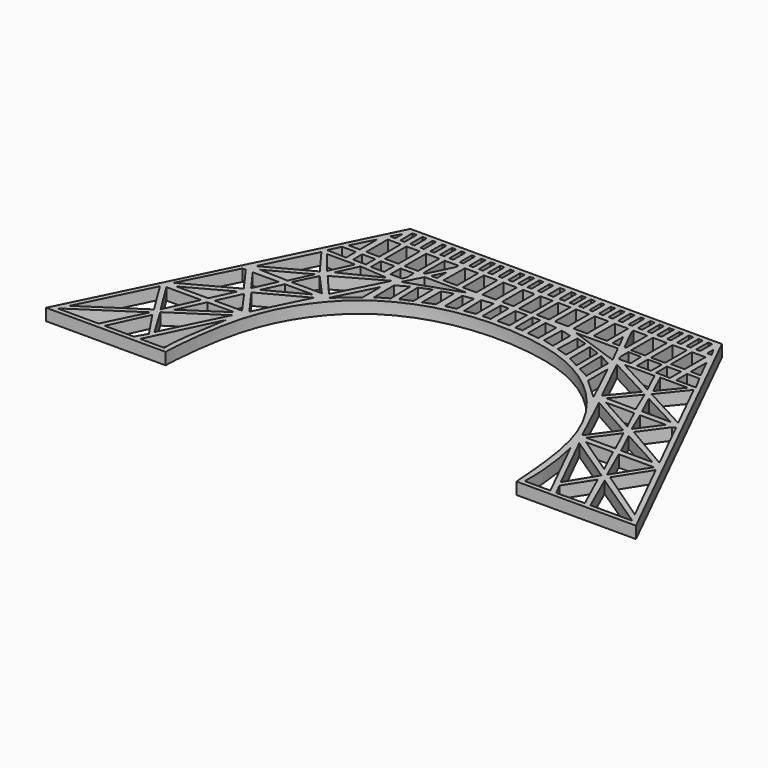
from build123d import *

# Parameters (mm, degrees)
F0_W     = 2.1969927219
F0_H     = 1.9482756859
F0_H_2   = 4.5209247087
F0_W_2   = 2.2384436875
F0_H_3   = 2.1140859725
F0_W_3   = 2.2645775986
F0_W_4   = 2.2655516778
F0_H_4   = 4.4288981134
F0_W_5   = 2.2655520793
F0_W_6   = 1.9419019113
F0_W_7   = 0.5858223257
F0_H_5   = 2.554183477
F0_W_8   = 0.679553962
F0_H_6   = 2.5307509694
F0_H_7   = 2.5073184618
F0_W_9   = 0.6561198484
F0_H_8   = 2.5307525754
F0_W_10  = 0.5623898181
F0_H_9   = 2.554185083
F0_W_11  = 0.7264189772
F0_H_10  = 2.5307493633
F0_W_12  = 0.6561206514
F0_W_13  = 0.7498514848
F0_H_11  = 2.5073168557
F0_W_14  = 0.6989393832
F0_H_12  = 2.491872922
F0_W_15  = 2.0356079761
F0_H_13  = 4.5042740178
F0_W_16  = 2.0717428371
F0_H_14  = 4.4560952404
F0_W_17  = 2.204237687
F0_H_15  = 4.4320042456
F0_W_18  = 2.2765082622
F0_H_16  = 4.480183023
F0_W_19  = 2.3498388412
F0_H_17  = 2.2834246057
F0_W_20  = 2.2403741792
F0_H_18  = 4.4681391317
F0_W_21  = 2.3700961556
F0_H_19  = 4.5781337956
F0_W_22  = 0.9420490645
F0_W_23  = 0.7597171486
F0_W_24  = 0.5773848563
F0_W_25  = 0.7498530908
F0_H_20  = 2.5874097769
F0_W_26  = 0.6326873408
F0_H_21  = 2.5887652969
F0_W_27  = 2.2890652917
F0_H_22  = 4.3958179654
F1_DEPTH = 2


with BuildPart() as f1:
    # F0 (on Top) → F1 (new body)
    with BuildSketch(Plane.XY):
        with BuildLine():
            Line((27.0007730746, 30.2083718114), (-25.4992269254, 30.2083718114))
            Line((-25.4992269254, 30.2083718114), (-48.8868722465, -17.2833914392))
            Line((-48.8868722465, -17.2833914392), (-28.7300878996, -17.2833914392))
            add(Edge.make_bspline(
                [(30.3724716103, -17.2833914392), (30.0141074374, -12.5329172532), (29.3433432359, -3.6412694135), (24.4366761221, 5.9431182443), (16.8732465462, 12.7394233727), (7.1639295493, 15.9492300859), (-5.11994949, 16.209739628), (-15.3902742058, 12.6879454183), (-22.604072381, 6.2724216809), (-27.804809421, -3.7916482494), (-28.7934558269, -16.2804704783), (-28.7407355817, -17.1148711163), (-28.7300878996, -17.2833914392)],
                knots=[0, 0, 0, 0, 0.12041649, 0.2253882416, 0.3267062189, 0.4297355944, 0.5431890477, 0.6490299731, 0.7471991683, 0.8603557383, 0.9717966466, 1, 1, 1, 1], degree=3))
            Line((30.3724716103, -17.2833914392), (50.5131277535, -17.2833914392))
            Line((50.5131277535, -17.2833914392), (27.0007730746, 30.2083718114))
        make_face()
        Polygon((-40.676256503, -16.4876321549), (-47.610968194, -16.4876321549), (-37.343290916, -9.7195967068), align=None, mode=Mode.SUBTRACT)
        Polygon((-36.7019394001, -10.1268065046), (-33.6747549381, -14.6489544345), (-34.7521106481, -16.4876321549), (-39.6426596759, -16.4876321549), align=None, mode=Mode.SUBTRACT)
        Polygon((-46.8110632146, -14.9262421901), (-41.0118312115, -3.1501206719), (-37.5021999697, -8.7902179739), align=None, mode=Mode.SUBTRACT)
        Polygon((-36.8371810859, -8.2122192832), (-40.2030322747, -2.8031814381), (-34.3377181494, -2.8058404145), align=None, mode=Mode.SUBTRACT)
        with BuildLine():
            Line((-33.6747549381, -16.4876321549), (-28.2305723657, -5.2353078901))
            add(Edge.make_bspline(
                [(-28.2305723657, -5.2353078901), (-28.8038633021, -8.65007086), (-29.6739515275, -13.8326838481), (-29.6335091118, -15.8123461475), (-29.6197137299, -16.4876321549)],
                knots=[0, 0, 0, 0, 0.6588882824, 1, 1, 1, 1], degree=3))
            Line((-29.6197137299, -16.4876321549), (-33.6747549381, -16.4876321549))
        make_face(mode=Mode.SUBTRACT)
        Polygon((-28.4398625694, -3.6568282297), (-33.4320301355, -13.7940967278), (-36.3658081307, -8.881289329), align=None, mode=Mode.SUBTRACT)
        Polygon((-28.7526948891, -2.8031814381), (-35.3111020298, -7.1575351879), (-33.2980085945, -2.8031814381), align=None, mode=Mode.SUBTRACT)
        Polygon((-33.9134099686, -1.8355467584), (-39.289154843, -1.8355467584), (-32.0983091682, 2.0905457108), align=None, mode=Mode.SUBTRACT)
        Polygon((-32.8247756802, -1.8355467584), (-31.0105061303, 2.0887477026), (-28.2305723657, -1.8355467584), align=None, mode=Mode.SUBTRACT)
        Polygon((-31.9781386016, 3.2176542266), (-40.2030322747, -1.2442146215), (-35.7061911318, 7.5931705847), (-35.141162048, 7.5931705847), align=None, mode=Mode.SUBTRACT)
        Polygon((-27.3012413639, -1.4592444165), (-30.5266882886, 3.0026244316), (-23.1590707714, 6.9519907643), align=None, mode=Mode.SUBTRACT)
        Polygon((-31.309682815, 3.9377400451), (-33.9724200572, 7.5931705847), (-29.6197137299, 7.5931705847), align=None, mode=Mode.SUBTRACT)
        Polygon((-30.0683908406, 4.2978448444), (-28.5346649622, 7.5931705847), (-23.8637744125, 7.5931705847), align=None, mode=Mode.SUBTRACT)
        Polygon((36.4919729478, -16.5663165559), (35.5179386961, -14.6468970635), (38.3827434292, -10.1778031254), (41.2475449501, -16.4803727351), align=None, mode=Mode.SUBTRACT)
        Polygon((49.2689982028, -16.4946972406), (42.2072563024, -16.4946972406), (39.2565077485, -9.8197033368), align=None, mode=Mode.SUBTRACT)
        with BuildLine():
            add(Edge.make_bspline(
                [(29.969214055, -5.4132536138), (30.1952817712, -6.4675358341), (30.6791707617, -8.7241851597), (31.1878520754, -13.1079097936), (31.1580596797, -15.4220712278), (31.1441318695, -16.5039312247)],
                knots=[0, 0, 0, 0, 0.3182998776, 0.681308278, 1, 1, 1, 1], degree=3))
            Line((29.969214055, -5.4132536138), (35.4594323622, -16.5039312247))
            Line((35.4594323622, -16.5039312247), (31.1441318695, -16.5039312247))
        make_face(mode=Mode.SUBTRACT)
        Polygon((37.9981869101, -8.9345206889), (35.0406318472, -13.7759963604), (29.9965814251, -3.5866133605), align=None, mode=Mode.SUBTRACT)
        Polygon((42.6442284018, -3.2701761367), (48.3972767998, -14.8775651262), (39.2410124207, -8.6585976926), align=None, mode=Mode.SUBTRACT)
        Polygon((38.4509819749, -8.3142249528), (36.0403727964, -2.8042603132), (41.9554829222, -2.8042603132), align=None, mode=Mode.SUBTRACT)
        Polygon((37.1653162514, -7.2932325341), (30.5049335359, -2.8042603132), (35.0406318472, -2.8042603132), align=None, mode=Mode.SUBTRACT)
        Polygon((34.6783161345, -1.8082115097), (29.7724612947, -1.8082115097), (32.7704828046, 2.2629688581), align=None, mode=Mode.SUBTRACT)
        Polygon((40.9298778811, -1.8082115097), (35.6151988602, -1.8082115097), (33.7755044998, 2.109660794), align=None, mode=Mode.SUBTRACT)
        Polygon((28.8859993374, -1.6020458824), (24.8154998186, 7.0666208648), (32.2027010172, 2.9018880354), align=None, mode=Mode.SUBTRACT)
        Polygon((41.7361129159, -1.3726489976), (33.6155145975, 3.378381514), (36.6946103351, 7.551370225), (37.1952695204, 7.7992379716), align=None, mode=Mode.SUBTRACT)
        Polygon((31.9547805059, 4.0695077318), (25.5479704537, 7.6287505001), (30.2834858999, 7.6287505001), align=None, mode=Mode.SUBTRACT)
        Polygon((32.8572648805, 3.8835983601), (31.2714704436, 7.6287505001), (35.6151988602, 7.6287505001), align=None, mode=Mode.SUBTRACT)
        Polygon((-28.9125942886, 8.5972479822), (-33.6747549381, 8.7615893771), (-27.2236073303, 12.2505541659), align=None, mode=Mode.SUBTRACT)
        Polygon((-23.1104329457, 8.5972479822), (-28.2305723657, 8.5972479822), (-26.4244962689, 12.2647287065), align=None, mode=Mode.SUBTRACT)
        Polygon((-34.7241596989, 9.2365388476), (-30.5266882886, 17.760069786), (-27.2236073303, 13.2930516886), align=None, mode=Mode.SUBTRACT)
        Polygon((-26.5685334899, 14.017317666), (-29.6197137299, 17.760069786), (-24.8381941201, 17.760069786), align=None, mode=Mode.SUBTRACT)
        Polygon((-21.5846381638, 8.1671993587), (-18.215794873, 14.7906876508), (-18.215794873, 11.0379506843), align=None, mode=Mode.SUBTRACT)
        Polygon((-25.6201669312, 12.9444774793), (-18.1606827073, 17.1273647785), (-22.2738554859, 9.0404490658), align=None, mode=Mode.SUBTRACT)
        Polygon((-17.0354983424, 12.0063990373), (-17.1262908774, 16.3038880016), (-15.219658885, 17.3631288896), (-15.1269081446, 13.1275352584), align=None, mode=Mode.SUBTRACT)
        Polygon((-25.5478081855, 14.2696050573), (-23.9341056626, 17.760069786), (-19.2328427928, 17.3984334394), align=None, mode=Mode.SUBTRACT)
        Polygon((-14.1906827107, 13.6103911201), (-14.2814752457, 17.7565605311), (-12.4051055579, 18.5434238142), (-12.3387296199, 14.4281015669), align=None, mode=Mode.SUBTRACT)
        Polygon((-11.2248098303, 18.6039532415), (-11.2248098303, 18.8460645268), (-9.4997613019, 19.360553417), (-9.4377379868, 15.5150947166), (-11.2248098303, 14.8209507584), align=None, mode=Mode.SUBTRACT)
        Polygon((-8.1984091287, 15.8499269327), (-8.25893695, 19.6026647022), (-6.5036237078, 19.8447759874), (-6.5036237078, 16.2433601803), align=None, mode=Mode.SUBTRACT)
        Polygon((-27.0055099486, 18.5247870206), (-30.2802695335, 18.6491447356), (-29.31416174, 20.6109567081), (-27.0055099486, 20.6109567081), align=None, mode=Mode.SUBTRACT)
        with Locations((-24.8292435125, 19.6232825785)):
            Rectangle(F0_W, F0_H, mode=Mode.SUBTRACT)
        Polygon((-28.9125942886, 21.4642314784), (-27.0174109, 25.1265306488), (-27.0174109, 21.4642314784), align=None, mode=Mode.SUBTRACT)
        with Locations((-24.8292435125, 23.7246938327)):
            Rectangle(F0_W, F0_H_2, mode=Mode.SUBTRACT)
        Polygon((-26.2383370386, 26.8920600788), (-25.3782178587, 28.3972686436), (-25.3782178587, 26.8920600788), align=None, mode=Mode.SUBTRACT)
        Polygon((-24.473906158, 26.8207555525), (-24.5207711732, 29.3971798358), (-23.7709196884, 29.3971798358), (-23.7709196884, 26.8207555525), align=None, mode=Mode.SUBTRACT)
        with Locations((-21.6581145538, 19.5403774352)):
            Rectangle(F0_W_2, F0_H_3, mode=Mode.SUBTRACT)
        Polygon((-17.4909791129, 18.483334449), (-19.4611226349, 18.483334449), (-19.4611226349, 20.5974204215), (-17.2226789474, 20.5974204215), (-17.2226789474, 19.0636720582), align=None, mode=Mode.SUBTRACT)
        Polygon((-8.3611686923, 20.6468422942), (-16.9773330447, 17.6643241425), (-15.4529335934, 20.6468422942), align=None, mode=Mode.SUBTRACT)
        with Locations((-21.6450475982, 23.7246938327)):
            Rectangle(F0_W_3, F0_H_2, mode=Mode.SUBTRACT)
        with Locations((-18.3419007912, 23.7246938327)):
            Rectangle(F0_W_2, F0_H_2, mode=Mode.SUBTRACT)
        Polygon((-14.983873895, 21.4642314784), (-14.0187340386, 23.4564625886), (-14.0187340386, 21.4642314784), align=None, mode=Mode.SUBTRACT)
        Polygon((-16.2941300999, 25.9433326141), (-14.0187340386, 25.985156187), (-14.0187340386, 25.4429032284), (-15.9780582955, 21.4642314784), (-16.2941300999, 21.4642314784), align=None, mode=Mode.SUBTRACT)
        Polygon((-12.9426374846, 21.4676144554), (-12.8745009241, 25.9135481142), (-10.6430179281, 25.9135481142), (-10.6430179281, 21.4676144554), align=None, mode=Mode.SUBTRACT)
        Polygon((-5.3838558016, 16.3644158229), (-5.5351757563, 20.1776814137), (-3.6285433625, 20.4197926989), (-3.6285433625, 16.6973196431), align=None, mode=Mode.SUBTRACT)
        Polygon((-2.5654343016, 16.7467215566), (-2.5651044179, 20.574085884), (-1.2400523431, 20.582634664), (-1.2153605469, 16.7554317679), align=None, mode=Mode.SUBTRACT)
        with Locations((-8.5392906818, 23.6990990575)):
            Rectangle(F0_W_4, F0_H_4, mode=Mode.SUBTRACT)
        with Locations((-5.2687191156, 23.6990990575)):
            Rectangle(F0_W_5, F0_H_4, mode=Mode.SUBTRACT)
        with Locations((-2.1088700123, 23.6990990575)):
            Rectangle(F0_W_6, F0_H_4, mode=Mode.SUBTRACT)
        Polygon((-22.8336049309, 26.8676205676), (-22.8336049309, 29.398371537), (-22.1071859538, 29.4218040446), (-22.1071859538, 26.8676205676), align=None, mode=Mode.SUBTRACT)
        with Locations((-20.8066609047, 28.1212797985)):
            Rectangle(F0_W_7, F0_H_5, mode=Mode.SUBTRACT)
        with Locations((-19.1194938594, 28.1329960523)):
            Rectangle(F0_W_8, F0_H_6, mode=Mode.SUBTRACT)
        with Locations((-17.5026251399, 28.1447123061)):
            Rectangle(F0_W_8, F0_H_7, mode=Mode.SUBTRACT)
        with Locations((-15.9209059848, 28.1329952493)):
            Rectangle(F0_W_9, F0_H_8, mode=Mode.SUBTRACT)
        with Locations((-14.210305629, 28.1329952493)):
            Rectangle(F0_W_10, F0_H_8, mode=Mode.SUBTRACT)
        with Locations((-12.5348540345, 28.1212789955)):
            Rectangle(F0_W_8, F0_H_9, mode=Mode.SUBTRACT)
        Polygon((-11.3046281142, 26.8676189616), (-11.3046281142, 29.3749358173), (-10.578209137, 29.398371537), (-10.578209137, 26.8676189616), align=None, mode=Mode.SUBTRACT)
        with Locations((-9.3479832167, 28.1095611357)):
            Rectangle(F0_W_11, F0_H_10, mode=Mode.SUBTRACT)
        with Locations((-7.6490995162, 28.1095611357)):
            Rectangle(F0_W_12, F0_H_10, mode=Mode.SUBTRACT)
        with Locations((-5.9619324709, 28.1212773894)):
            Rectangle(F0_W_13, F0_H_11, mode=Mode.SUBTRACT)
        Polygon((-4.6970749426, 26.886954394), (-4.6970749426, 29.3484389352), (-3.9981349571, 29.3788257099), (-3.9981349571, 26.886954394), align=None, mode=Mode.SUBTRACT)
        with Locations((-2.7370048076, 28.1025024742)):
            Rectangle(F0_W_14, F0_H_12, mode=Mode.SUBTRACT)
        Polygon((-1.3543198299, 26.8565660132), (-1.3543198299, 29.3484389352), (-0.7161575596, 29.3180489483), (-0.7161575596, 26.8565660132), align=None, mode=Mode.SUBTRACT)
        Polygon((19.7595773543, 11.0356130548), (19.7595773543, 15.2171818553), (23.2843324039, 7.7944571955), align=None, mode=Mode.SUBTRACT)
        Polygon((8.0620755808, 16.4186375436), (8.1724448761, 20.0298205242), (9.9550805185, 19.5436465832), (9.9550805185, 15.9023628495), align=None, mode=Mode.SUBTRACT)
        Polygon((11.0084560523, 15.5732306154), (11.1738899826, 19.5436465832), (12.9126355814, 19.0574726422), (12.9126355814, 15.0060290226), align=None, mode=Mode.SUBTRACT)
        Polygon((16.8424200135, 12.985319182), (16.7615076624, 17.5989540313), (18.7467148433, 16.5378306718), (18.7467148433, 11.9674447018), align=None, mode=Mode.SUBTRACT)
        Polygon((27.2985042704, 13.0128700268), (23.8615815476, 8.8381802707), (19.8755722819, 16.9805398018), align=None, mode=Mode.SUBTRACT)
        Polygon((13.9783862191, 18.692844194), (15.8701906443, 17.9230694566), (15.8701906443, 13.4664795478), (13.9783862191, 14.4776777171), align=None, mode=Mode.SUBTRACT)
        Polygon((27.4660750192, 13.9272008674), (20.6761818865, 17.576738922), (25.7523809382, 17.576738922), align=None, mode=Mode.SUBTRACT)
        Polygon((29.7724612947, 8.5656332258), (24.8154998186, 8.6337697862), (28.0690384493, 12.5857103702), align=None, mode=Mode.SUBTRACT)
        Polygon((35.6151988602, 8.6337697862), (30.7945137172, 8.6337697862), (29.2273655987, 12.0235807348), align=None, mode=Mode.SUBTRACT)
        Polygon((36.5550774117, 9.0419469179), (28.7132637705, 13.2639072062), (32.2785350551, 17.679981683), align=None, mode=Mode.SUBTRACT)
        Polygon((31.2714704436, 17.6642250014), (28.3245507518, 14.0847219281), (26.6381602396, 17.6642250014), align=None, mode=Mode.SUBTRACT)
        Polygon((-0.1563286627, 16.8633645671), (-0.0958759769, 20.574085884), (1.8432910436, 20.5865967223), (1.8672278282, 16.8764198573), align=None, mode=Mode.SUBTRACT)
        Polygon((2.8551535884, 16.8401310601), (2.8310633966, 20.574085884), (4.1078351264, 20.574085884), (4.1078351264, 16.8401310601), align=None, mode=Mode.SUBTRACT)
        Polygon((5.1557516408, 16.6474095262), (5.1437065449, 20.4054553449), (7.0949992264, 20.1886460284), (7.0949992264, 16.4306002098), align=None, mode=Mode.SUBTRACT)
        with Locations((0.877751275, 23.6614111053)):
            Rectangle(F0_W_15, F0_H_13, mode=Mode.SUBTRACT)
        with Locations((3.8588928396, 23.685500494)):
            Rectangle(F0_W_16, F0_H_14, mode=Mode.SUBTRACT)
        with Locations((6.9363945563, 23.6975459914)):
            Rectangle(F0_W_17, F0_H_15, mode=Mode.SUBTRACT)
        with Locations((10.1524142732, 23.6734566027)):
            Rectangle(F0_W_18, F0_H_16, mode=Mode.SUBTRACT)
        Polygon((18.6184319022, 17.6643241425), (10.0488250033, 20.6597052793), (17.098998408, 20.6597052793), align=None, mode=Mode.SUBTRACT)
        Polygon((18.8366802541, 18.9619373934), (18.8366802541, 20.7446003388), (21.0047830551, 20.6723305667), (21.0539608057, 18.3889059609), (19.1066492278, 18.3889059609), align=None, mode=Mode.SUBTRACT)
        with Locations((23.3227703891, 19.5306182638)):
            Rectangle(F0_W_19, F0_H_17, mode=Mode.SUBTRACT)
        Polygon((15.5936260244, 21.4333650912), (15.5936260244, 23.6525970134), (16.7364947856, 21.4333650912), align=None, mode=Mode.SUBTRACT)
        with Locations((13.5069515888, 23.6794785484)):
            Rectangle(F0_W_20, F0_H_18, mode=Mode.SUBTRACT)
        Polygon((15.5532019976, 25.5375560594), (15.5439969691, 25.9174540675), (17.8346546009, 25.9174540675), (17.8346546009, 21.5021667366), (17.5510538045, 21.5021667366), align=None, mode=Mode.SUBTRACT)
        Polygon((18.7851528285, 21.3393202719), (18.8054101429, 25.9174540675), (21.155247378, 25.9174540675), (21.155247378, 21.3393202719), align=None, mode=Mode.SUBTRACT)
        with Locations((23.3328990463, 23.6283871697)):
            Rectangle(F0_W_21, F0_H_19, mode=Mode.SUBTRACT)
        with Locations((0.8488594468, 28.1025024742)):
            Rectangle(F0_W_22, F0_H_12, mode=Mode.SUBTRACT)
        Polygon((2.2923219013, 26.8565660132), (2.2923219013, 29.3788257099), (3.1432049953, 29.3484389352), (3.1432049953, 26.8565660132), align=None, mode=Mode.SUBTRACT)
        Polygon((4.0244766709, 26.8565660132), (4.0244766709, 29.3484389352), (4.7538046357, 29.3788257099), (4.7538046357, 26.8565660132), align=None, mode=Mode.SUBTRACT)
        with Locations((5.9845467055, 28.1025024742)):
            Rectangle(F0_W_23, F0_H_12, mode=Mode.SUBTRACT)
        with Locations((7.6385061213, 28.1025024742)):
            Rectangle(F0_W_24, F0_H_12, mode=Mode.SUBTRACT)
        Polygon((8.9604139358, 26.8565660132), (8.9604139358, 29.3484389352), (9.6897423022, 29.3788257099), (9.6897423022, 26.8565660132), align=None, mode=Mode.SUBTRACT)
        Polygon((10.5710133755, 26.8565660132), (10.5710133755, 29.3484389352), (11.3003417418, 29.3788257099), (11.3003417418, 26.8565660132), align=None, mode=Mode.SUBTRACT)
        Polygon((12.1816136181, 26.8565660132), (12.1816136181, 29.4243352051), (12.9051240092, 29.4243352051), (12.9086014319, 29.3789717585), (12.9109419844, 29.3788257099), (12.9109419844, 29.3484389352), (12.9109419844, 26.8565660132), align=None, mode=Mode.SUBTRACT)
        Polygon((13.9441573708, 26.8565660132), (13.9441573708, 29.3484389352), (13.9441573708, 29.4243352051), (14.5519314109, 29.4243352051), (14.5519314109, 26.8565660132), align=None, mode=Mode.SUBTRACT)
        with Locations((15.9187420291, 28.1306303166)):
            Rectangle(F0_W_25, F0_H_20, mode=Mode.SUBTRACT)
        Polygon((17.1372516956, 26.8603595418), (17.1372516956, 29.3788257099), (17.1329442257, 29.4243352051), (17.8636706728, 29.4243352051), (17.8636706728, 26.8603595418), align=None, mode=Mode.SUBTRACT)
        Polygon((18.7541204151, 26.8369254282), (18.7541204151, 29.3788257099), (18.7545813561, 29.4243352051), (19.5274044074, 29.4243352051), (19.5274044074, 26.8369254282), align=None, mode=Mode.SUBTRACT)
        with Locations((20.8044969489, 28.0844430615)):
            Rectangle(F0_W_26, F0_H_21, mode=Mode.SUBTRACT)
        Polygon((22.1390368765, 26.8360420917), (22.0921718614, 29.3971798358), (22.8185908386, 29.3971798358), (22.8185908386, 26.8360420917), align=None, mode=Mode.SUBTRACT)
        Polygon((23.755905596, 26.8360420917), (23.7090405809, 29.3971798358), (24.4354595581, 29.3971798358), (24.4354595581, 26.8360420917), align=None, mode=Mode.SUBTRACT)
        with Locations((26.5436689339, 19.5306182638)):
            Rectangle(F0_W_19, F0_H_17, mode=Mode.SUBTRACT)
        Polygon((28.7517065739, 18.3889059609), (28.7517065739, 20.6723305667), (30.838198721, 20.6723305667), (32.073890085, 18.3889059609), align=None, mode=Mode.SUBTRACT)
        with Locations((26.5132821592, 23.7195450848)):
            Rectangle(F0_W_27, F0_H_22, mode=Mode.SUBTRACT)
        Polygon((28.7517065739, 21.4788714771), (28.7517065739, 24.7830492758), (30.387548139, 21.4788714771), align=None, mode=Mode.SUBTRACT)
        Polygon((27.1580647855, 26.8898629801), (27.1580647855, 28.2255351844), (27.9079178763, 26.8898629801), align=None, mode=Mode.SUBTRACT)
        Polygon((25.3303002857, 26.8429963589), (25.3537343993, 29.3971798358), (26.0332867553, 29.3971798358), (26.0332867553, 26.8429963589), align=None, mode=Mode.SUBTRACT)
    extrude(amount=F1_DEPTH)


solid = f1.part
